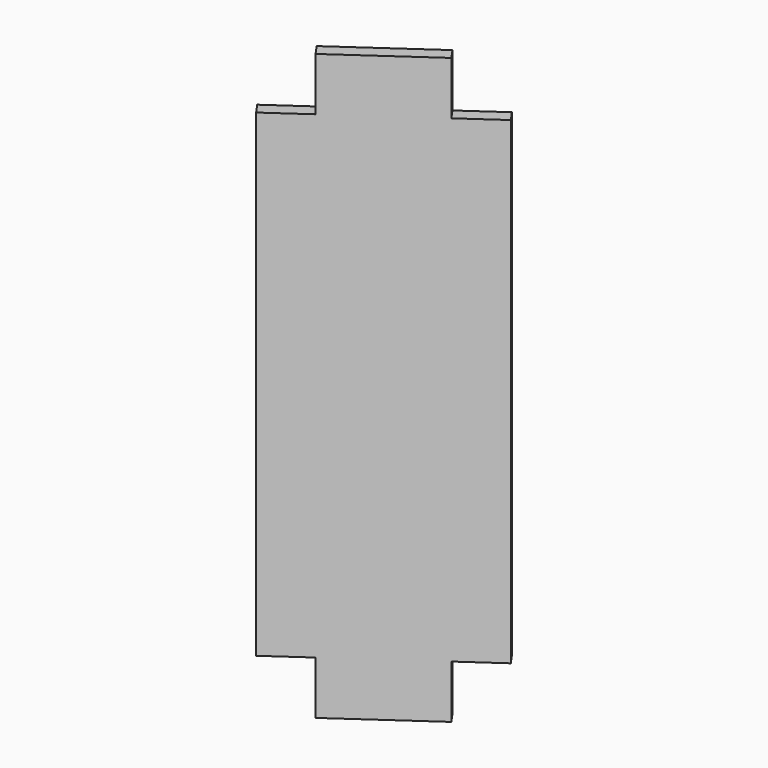
from build123d import *

# Parameters (mm, degrees)
PAD008_DEPTH               = 22
POCKET008_DEPTH            = 4
BODY004023_PLACEMENT_ANGLE = 90


with BuildPart() as part:
    # Sketch014 → Pad008 (new body)
    with BuildSketch(Plane.XY):
        Polygon((9.2084513411, 14.8813448283), (10.0276033854, 15.4549212646), (18.6312499306, 3.1676406003), (17.8120978864, 2.594064164), align=None)
    pad008 = extrude(amount=-PAD008_DEPTH)

    # Mirrored: Pad008 across face of Pad008
    add(pad008.mirror(Plane(origin=(13.9198506359, 9.0244927143, -22), x_dir=(1, 0, 0), z_dir=(0, 0, -1))))

    # Sketch027 → Pocket008 (cut)
    with BuildSketch(Plane.XY):
        Polygon((9.2084513411, 14.8813448283), (10.0276033854, 15.4549212646), (12.0351209126, 12.5878891096), (11.2159688683, 12.0143126733), align=None)
        Polygon((18.6312499306, 3.1676406003), (17.8120978864, 2.594064164), (15.8045803591, 5.461096319), (16.6237324034, 6.0346727553), align=None)
    pocket008 = extrude(amount=-POCKET008_DEPTH, mode=Mode.SUBTRACT)

    # Mirrored001: Pocket008 across face of Pad008
    add(pocket008.mirror(Plane(origin=(13.9198506359, 9.0244927143, -22), x_dir=(1, 0, 0), z_dir=(0, 0, -1))), mode=Mode.SUBTRACT)


with BuildPart() as part_1:
    # Body004023 placement: moved
    add(part.part.rotate(Axis((0, 0, 0), (0, 0, 1)), BODY004023_PLACEMENT_ANGLE))


solid = part_1.part
